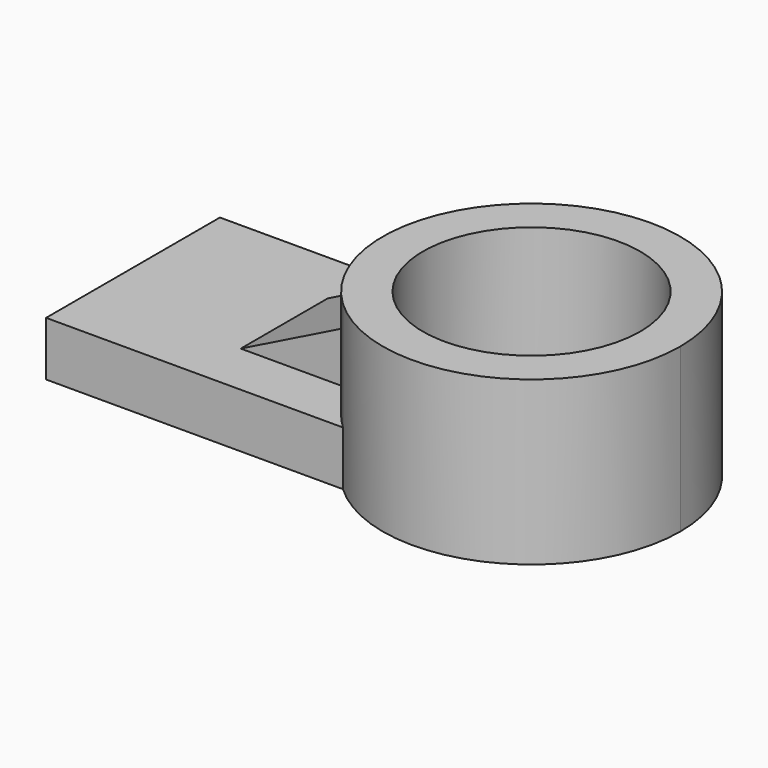
from build123d import *

# Parameters (mm, degrees)
F0_R     = 12.7
F1_DEPTH = 19.05
F2_DEPTH = 6.35
F4_DEPTH = 6.35
F6_DEPTH = 25.4


with BuildPart() as f1:
    # F0 (on Top) → F1 (new body)
    with BuildSketch(Plane.XY):
        with BuildLine():
            ThreePointArc((-11.8853662155, -12.7), (6.9216194995, -15.9575409628), (17.3940199516, 0))
            ThreePointArc((17.3940199516, 0), (6.9216194995, 15.9575409628), (-11.8853662155, 12.7))
            ThreePointArc((-11.8853662155, 12.7), (-17.3940199516, 0), (-11.8853662155, -12.7))
        make_face()
        Circle(F0_R, mode=Mode.SUBTRACT)
    extrude(amount=F1_DEPTH)

    # F0 (on Top) → F2 (join)
    with BuildSketch(Plane.XY):
        with BuildLine():
            ThreePointArc((-11.8853662155, -12.7), (-17.3940199516, 0), (-11.8853662155, 12.7))
            Line((-11.8853662155, 12.7), (-46.5966239572, 12.7))
            Line((-46.5966239572, 12.7), (-46.5966239572, -12.7))
            Line((-46.5966239572, -12.7), (-11.8853662155, -12.7))
        make_face()
    extrude(amount=F2_DEPTH)

    # F3 (on face) → F4 (join)
    with BuildSketch(Plane.XY.offset(6.35)):
        with BuildLine():
            Line((-28.9193168283, 6.35), (-28.9193168283, 0))
            Line((-28.9193168283, 0), (-28.9193168283, -6.35))
            Line((-28.9193168283, -6.35), (-16.1934996241, -6.35))
            ThreePointArc((-16.1934996241, -6.35), (-17.3940199516, 0), (-16.1934996241, 6.35))
            Line((-16.1934996241, 6.35), (-28.9193168283, 6.35))
        make_face()
    extrude(amount=F4_DEPTH)

    # F5 (on face) → F6 (cut)
    with BuildSketch(Plane.XZ.offset(6.35)):
        Polygon((-28.9193168283, 12.7), (-28.9193168283, 6.35), (-16.1934996241, 12.7), align=None)
    extrude(amount=-F6_DEPTH, mode=Mode.SUBTRACT)


solid = f1.part
